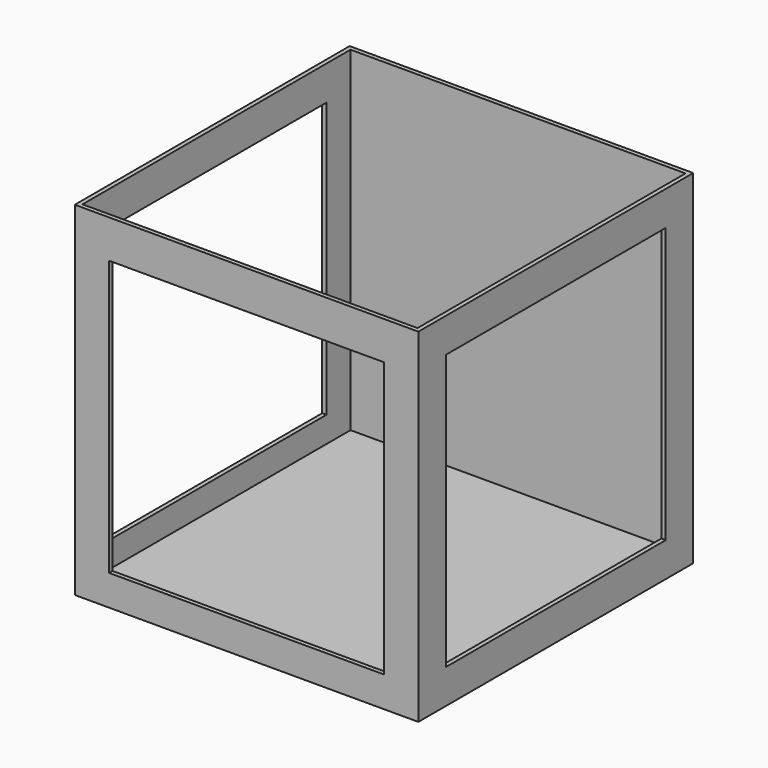
from build123d import *

# Parameters (mm, degrees)
F0_W     = 127
F0_H     = 127
F1_DEPTH = 127
F2_W     = 101.6
F2_H     = 101.6
F3_DEPTH = 123.825
F4_W     = 101.6
F4_H     = 101.6
F5_DEPTH = 127.001
F6_W     = 123.825
F6_H     = 123.825
F7_DEPTH = 123.825


with BuildPart() as f1:
    # F0 (on Front) → F1 (new body)
    with BuildSketch(Plane.XZ):
        Rectangle(F0_W, F0_H)
    extrude(amount=-F1_DEPTH)

    # F2 (on face) → F3 (cut)
    with BuildSketch(Plane.XZ):
        with Locations((0, -1.39066)):
            Rectangle(F2_W, F2_H)
    extrude(amount=-F3_DEPTH, mode=Mode.SUBTRACT)

    # F4 (on face) → F5 (cut, through all)
    with BuildSketch(Plane.YZ.offset(63.5)):
        with Locations((63.5, 0)):
            Rectangle(F4_W, F4_H)
    extrude(amount=-F5_DEPTH, mode=Mode.SUBTRACT)

    # F6 (on face) → F7 (cut)
    with BuildSketch(Plane.XY.offset(63.5)):
        with Locations((0, 63.5)):
            Rectangle(F6_W, F6_H)
    extrude(amount=-F7_DEPTH, mode=Mode.SUBTRACT)


solid = f1.part
